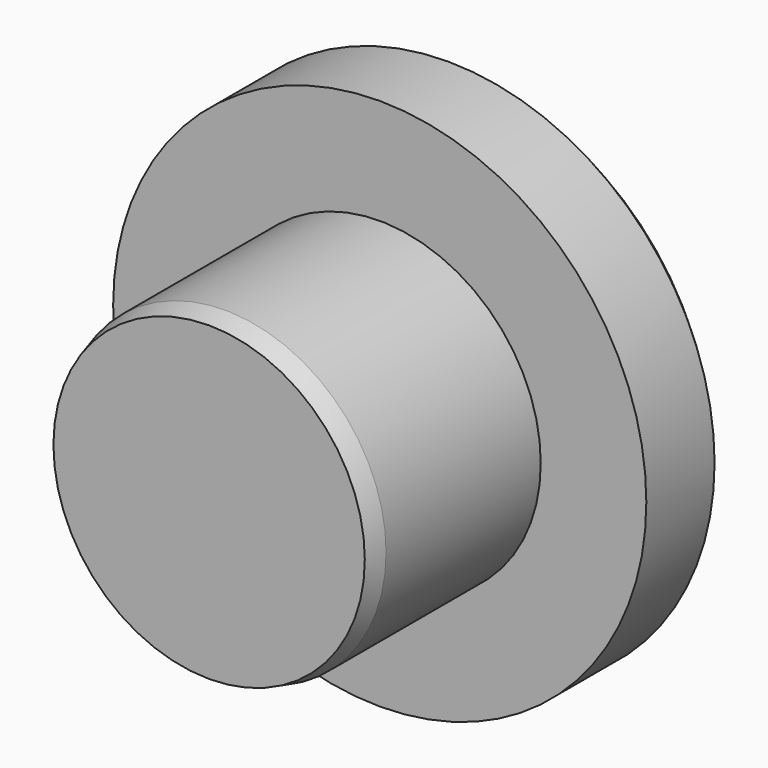
from build123d import *

# Parameters (mm, degrees)
F0_R     = 63.5
F1_DEPTH = 76.2
F2_R     = 63.5
F2_R_2   = 38.354
F3_DEPTH = 50.8
F4_SIZE2 = 1.27
F4_SIZE  = 4.7397045256
F5_SIZE  = 5.08


with BuildPart() as f1:
    # F0 (on Front) → F1 (new body)
    with BuildSketch(Plane.XZ):
        Circle(F0_R)
    extrude(amount=F1_DEPTH)

    # F2 (on face) → F3 (cut)
    with BuildSketch(Plane.XZ.offset(76.2)):
        Circle(F2_R)
        Circle(F2_R_2, mode=Mode.SUBTRACT)
    extrude(amount=-F3_DEPTH, mode=Mode.SUBTRACT)

    # F4
    f4_edges = [f1.edges().sort_by_distance(p)[0] for p in [
        (-38.354, -76.2, 0),
    ]]
    f4_side = f1.faces().sort_by_distance((-38.354, -50.8, 0))[0]
    chamfer(f4_edges, length=F4_SIZE, length2=F4_SIZE2, reference=f4_side)

    # F5
    f5_edges = [f1.edges().sort_by_distance(p)[0] for p in [
        (-63.5, 0, 0),
    ]]
    chamfer(f5_edges, length=F5_SIZE)


solid = f1.part
